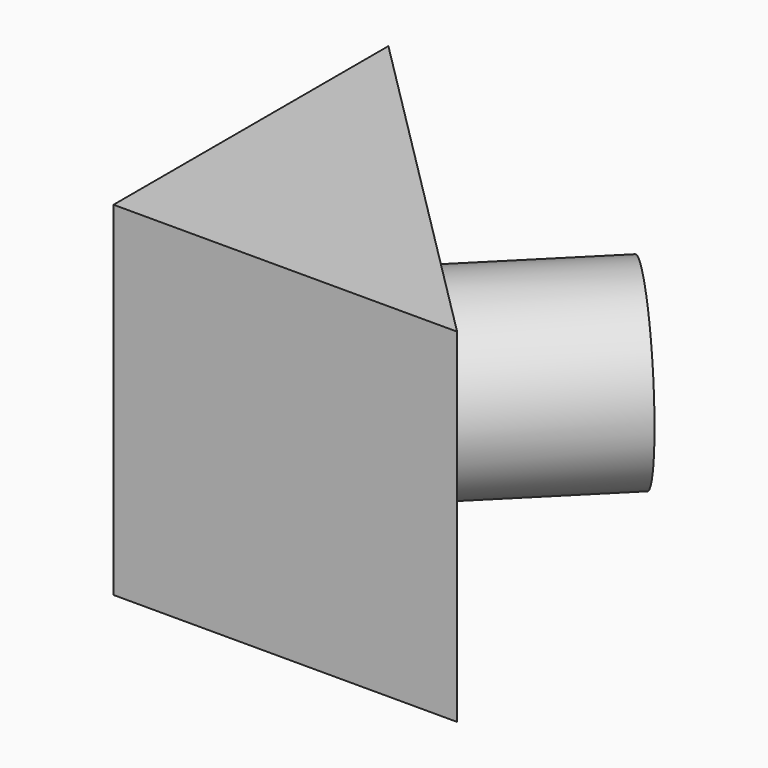
from build123d import *

# Parameters (mm, degrees)
F1_DEPTH = 50.8
F2_R     = 13.716
F3_DEPTH = 25.4
F4_R     = 12.7
F5_DEPTH = 35.56


with BuildPart() as f1:
    # F0 (on Top) → F1 (new body)
    with BuildSketch(Plane.XY):
        Polygon((25.4, -25.4), (-25.4, 25.4), (-25.4, -25.4), align=None)
    extrude(amount=F1_DEPTH)

    # F2 (on face) → F3 (join)
    with BuildSketch(Plane(origin=(0, 0, 0), x_dir=(-0.7071067812, 0.7071067812, 0), z_dir=(0.7071067812, 0.7071067812, 0))):
        with Locations((0, 25.4)):
            Circle(F2_R)
    extrude(amount=F3_DEPTH)

    # F4 (on face) → F5 (cut)
    with BuildSketch(Plane(origin=(17.9605122421, 17.9605122421, 0), x_dir=(-0.7071067812, 0.7071067812, 0), z_dir=(0.7071067812, 0.7071067812, 0))):
        with Locations((0, 25.4)):
            Circle(F4_R)
    extrude(amount=-F5_DEPTH, mode=Mode.SUBTRACT)


solid = f1.part
